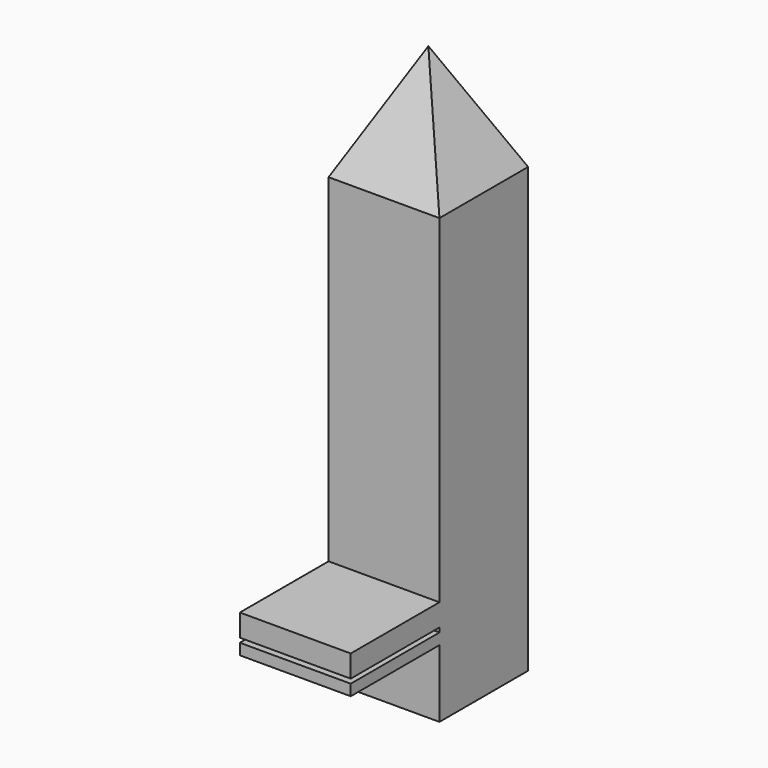
from build123d import *

# Parameters (mm, degrees)
F0_W      = 25.4
F0_H      = 25.4
F1_DEPTH  = 101.6
F1_FACE_W = 25.4
F1_FACE_H = 25.4
F5_W      = 25.4
F5_H      = 5.08
F7_DEPTH  = 25.4
F6_W      = 25.4
F6_H      = 2.54
F8_DEPTH  = 25.4


with BuildPart() as f1:
    # F0 (on Top) → F1 (new body)
    with BuildSketch(Plane.XY):
        with Locations((0.9904544594, -1.1599909367)):
            Rectangle(F0_W, F0_H)
    extrude(amount=F1_DEPTH)

    # F5 (on face) → F7 (join)
    with BuildSketch(Plane.XZ.offset(13.8599909367)):
        with Locations((0.9904544594, 21.59)):
            Rectangle(F5_W, F5_H)
    extrude(amount=F7_DEPTH)

    # F6 (on face) → F8 (join)
    with BuildSketch(Plane.XZ.offset(13.8599909367)):
        with Locations((0.9904544594, 16.764)):
            Rectangle(F6_W, F6_H)
    extrude(amount=F8_DEPTH)


with BuildPart() as f4:
    # F1_face (on face) → F4 section 0
    with BuildSketch(Plane(origin=(0.9904544594, -1.1599909367, 101.6), x_dir=(1, 0, 0), z_dir=(0, 0, 1)), mode=Mode.PRIVATE) as f4_s0:
        Rectangle(F1_FACE_W, F1_FACE_H)
    loft([Vertex(0.9904544594, -1.1599909367, 127), f4_s0.sketch])


solid = Compound([f1.part, f4.part])
